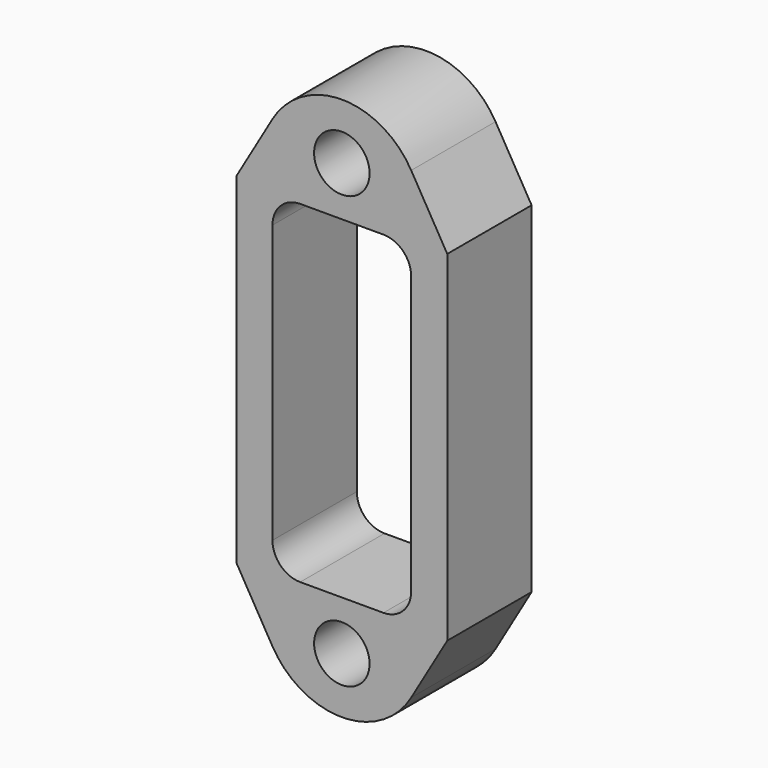
from build123d import *

# Parameters (mm, degrees)
F0_R     = 5
F1_DEPTH = 19


with BuildPart() as f1:
    # F0 (on Front) → F1 (new body)
    with BuildSketch(Plane.XZ):
        with BuildLine():
            Line((-12.5, 41.820371), (-19, 30.677514))
            Line((-19, 30.677514), (-19, 0))
            Line((-19, 0), (-19, -30.677514))
            Line((-19, -30.677514), (-12.5, -41.820371))
            ThreePointArc((-12.5, -41.820371), (0, -49), (12.5, -41.820371))
            Line((12.5, -41.820371), (19, -30.677514))
            Line((19, -30.677514), (19, 0))
            Line((19, 0), (19, 30.677514))
            Line((19, 30.677514), (12.5, 41.820371))
            ThreePointArc((12.5, 41.820371), (0, 49), (-12.5, 41.820371))
        make_face()
        with Locations((0, -38.9)):
            Circle(F0_R, mode=Mode.SUBTRACT)
        with BuildLine():
            Line((-12.5, -25), (-12.5, 0))
            Line((-12.5, 0), (-12.5, 25))
            ThreePointArc((-12.5, 25), (-11.035534, 28.535534), (-7.5, 30))
            Line((-7.5, 30), (0, 30))
            Line((0, 30), (7.5, 30))
            ThreePointArc((7.5, 30), (11.035534, 28.535534), (12.5, 25))
            Line((12.5, 25), (12.5, 0))
            Line((12.5, 0), (12.5, -25))
            ThreePointArc((12.5, -25), (11.035534, -28.535534), (7.5, -30))
            Line((7.5, -30), (0, -30))
            Line((0, -30), (-7.5, -30))
            ThreePointArc((-7.5, -30), (-11.035534, -28.535534), (-12.5, -25))
        make_face(mode=Mode.SUBTRACT)
        with Locations((0, 38.9)):
            Circle(F0_R, mode=Mode.SUBTRACT)
    extrude(amount=F1_DEPTH)


solid = f1.part
